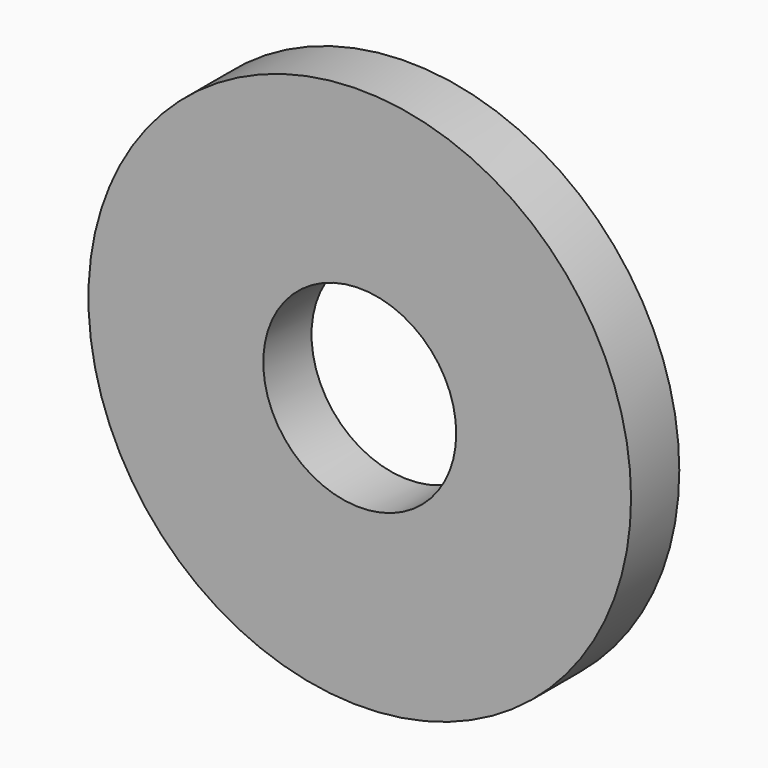
from build123d import *

# Parameters (mm, degrees)
CYLINDER018_R          = 1.6
CYLINDER018_DEPTH      = 1
CYLINDER017_R          = 4.5
CYLINDER017_DEPTH      = 1
CUT020_PLACEMENT_ANGLE = 90


with BuildPart() as facewasherscrewhole:
    # Cylinder018 → Cylinder018 (new body)
    with BuildSketch(Plane.XY):
        Circle(CYLINDER018_R)
    extrude(amount=CYLINDER018_DEPTH)


with BuildPart() as facewasher:
    # Cylinder017 → Cylinder017 (new body)
    with BuildSketch(Plane.XY):
        Circle(CYLINDER017_R)
    extrude(amount=CYLINDER017_DEPTH)

    # Cut020: cut FaceWasherScrewHole
    add(facewasherscrewhole.part, mode=Mode.SUBTRACT)


with BuildPart() as facewasher_1:
    # Cut020 placement: moved
    add(facewasher.part.moved(Location((0, 0, -1))).rotate(Axis((0, 0, -1), (1, 0, 0)), CUT020_PLACEMENT_ANGLE))


solid = facewasher_1.part
